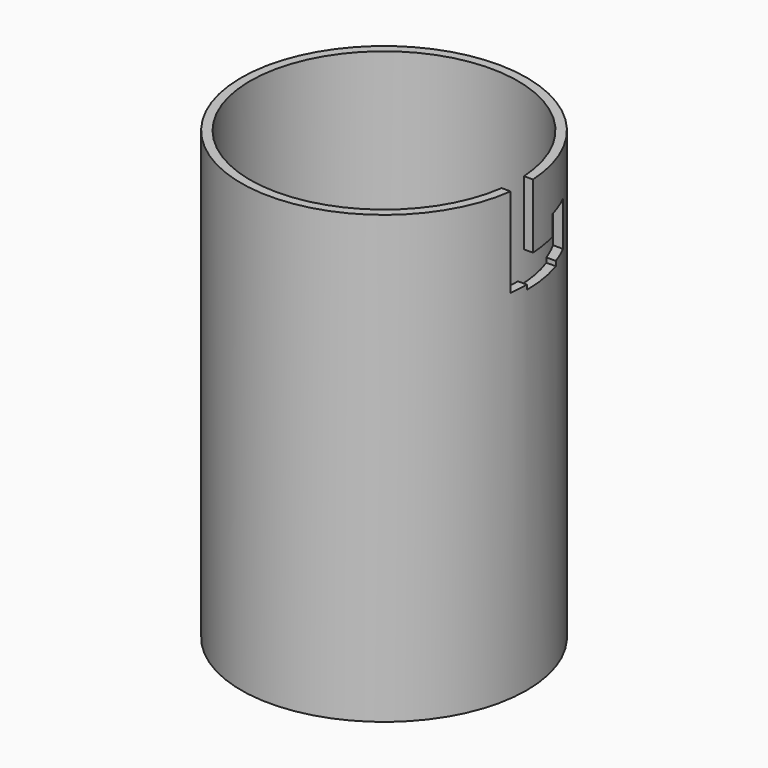
from build123d import *

# Parameters (mm, degrees)
F0_R     = 16
F0_R_2   = 15
F1_DEPTH = 50
F3_DEPTH = 10
F5_W     = 4.5602535829
F5_H     = 2.9019792564
F6_DEPTH = 5
F7_W     = 5.0895041786
F7_H     = 3.3034160733
F8_DEPTH = 49.4


with BuildPart() as f1:
    # F0 (on Top) → F1 (new body)
    with BuildSketch(Plane.XY):
        Circle(F0_R)
        Circle(F0_R_2, mode=Mode.SUBTRACT)
    extrude(amount=F1_DEPTH)

    # F2 (on face) → F3 (cut)
    with BuildSketch(Plane.XY.offset(50)):
        with BuildLine():
            Line((15.9751944562, 0.8905964787), (14.9735379224, 0.8905964787))
            ThreePointArc((14.9735379224, 0.8905964787), (14.9933830211, 0.4454947613), (15, 0))
            ThreePointArc((15, 0), (14.9629845517, -1.0531349891), (14.8521208926, -2.1010723431))
            Line((14.8521208926, -2.1010723431), (15.8614468132, -2.1010723431))
            ThreePointArc((15.8614468132, -2.1010723431), (15.9653241278, -1.0528178827), (16, 0))
            ThreePointArc((16, 0), (15.9937974118, 0.4454709314), (15.9751944562, 0.8905964787))
        make_face()
    extrude(amount=-F3_DEPTH, mode=Mode.SUBTRACT)

    # F5 (on offset) → F6 (cut)
    with BuildSketch(Plane.XY.offset(40)):
        with Locations((14.4062549807, 5.8039587457)):
            Rectangle(F5_W, F5_H)
    extrude(amount=F6_DEPTH, mode=Mode.SUBTRACT)

    # F7 (on Right) → F8 (cut)
    with BuildSketch(Plane.YZ):
        with Locations((2.5447520893, 41.1266498268)):
            Rectangle(F7_W, F7_H)
    extrude(amount=F8_DEPTH, mode=Mode.SUBTRACT)


solid = f1.part
